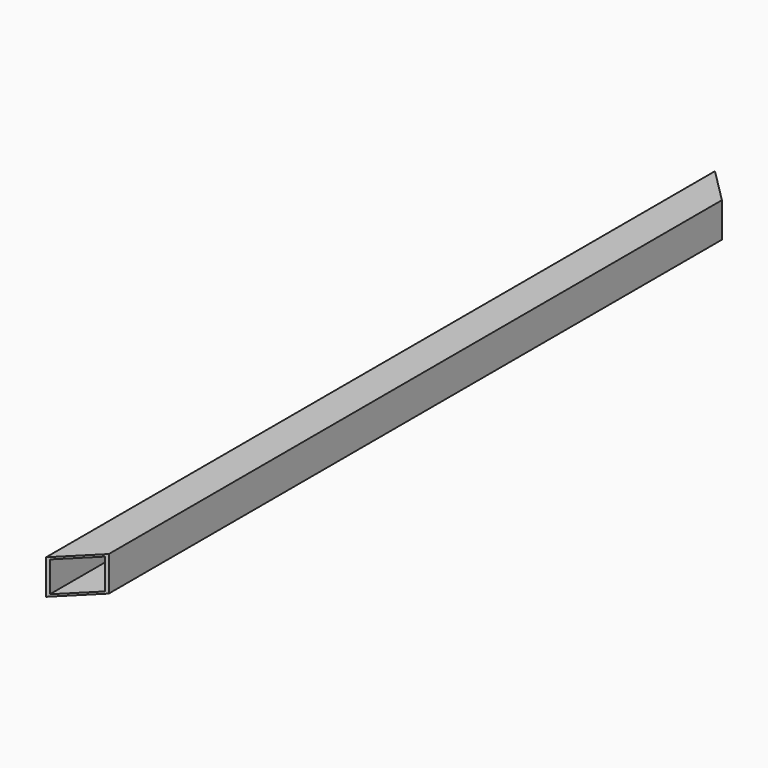
from build123d import *

# Parameters (mm, degrees)
F0_W     = 38.1
F0_H     = 38.1
F0_W_2   = 33.528
F0_H_2   = 33.528
F1_DEPTH = 914.4
F3_DEPTH = 50.8


with BuildPart() as f1:
    # F0 (on Front) → F1 (new body)
    with BuildSketch(Plane.XZ):
        with Locations((-19.05, -19.05)):
            Rectangle(F0_W, F0_H)
        with Locations((-19.05, -19.05)):
            Rectangle(F0_W_2, F0_H_2, mode=Mode.SUBTRACT)
    extrude(amount=F1_DEPTH)

    # F2 (on face) → F3 (cut)
    with BuildSketch(Plane.XY):
        Polygon((0, -876.3), (-38.1, -914.4), (0, -914.4), align=None)
        Polygon((0, 0), (-38.1, 0), (0, -38.1), align=None)
    extrude(amount=-F3_DEPTH, mode=Mode.SUBTRACT)


solid = f1.part
